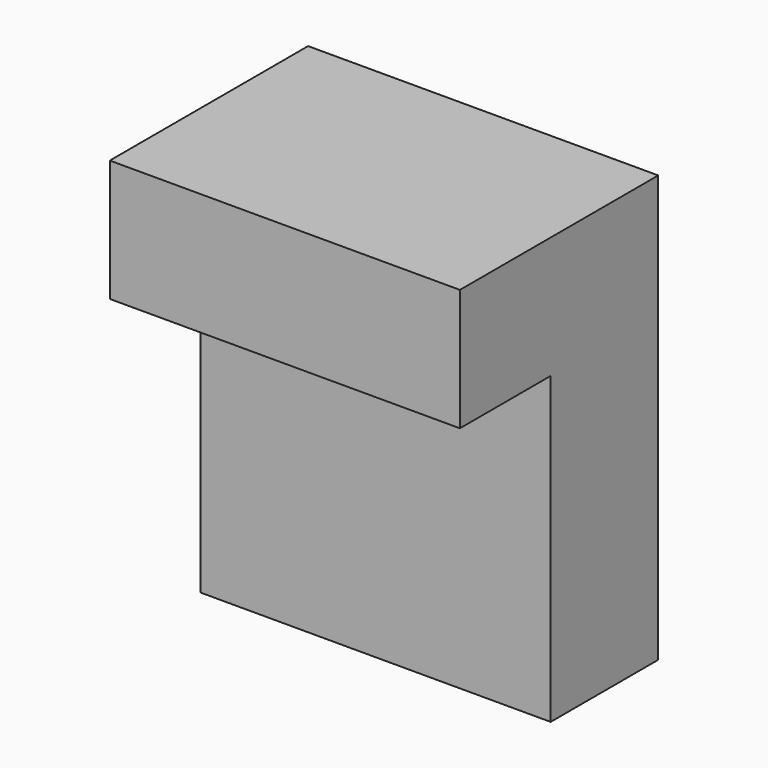
from build123d import *

# Parameters (mm, degrees)
F1_DEPTH  = 25.4
F1_FACE_W = 25.4
F1_FACE_H = 8.229604
F2_DEPTH  = 25.4


with BuildPart() as f1:
    # F0 (on Right) → F1 (new body)
    with BuildSketch(Plane.YZ):
        Polygon((11.582401, 22.098001), (11.582401, 0), (21.335999, 0), (21.335999, 22.098001), (29.565603, 22.098001), (29.565603, 30.9372), (3.352802, 30.9372), (3.352802, 22.098001), align=None)
    extrude(amount=F1_DEPTH)

    # F1_face (on face) → F2 (cut)
    with BuildSketch(Plane(origin=(12.7, 25.450801, 22.098001), x_dir=(1, 0, 0), z_dir=(0, 0, -1))):
        Rectangle(F1_FACE_W, F1_FACE_H)
    extrude(amount=-F2_DEPTH, mode=Mode.SUBTRACT)


solid = f1.part
